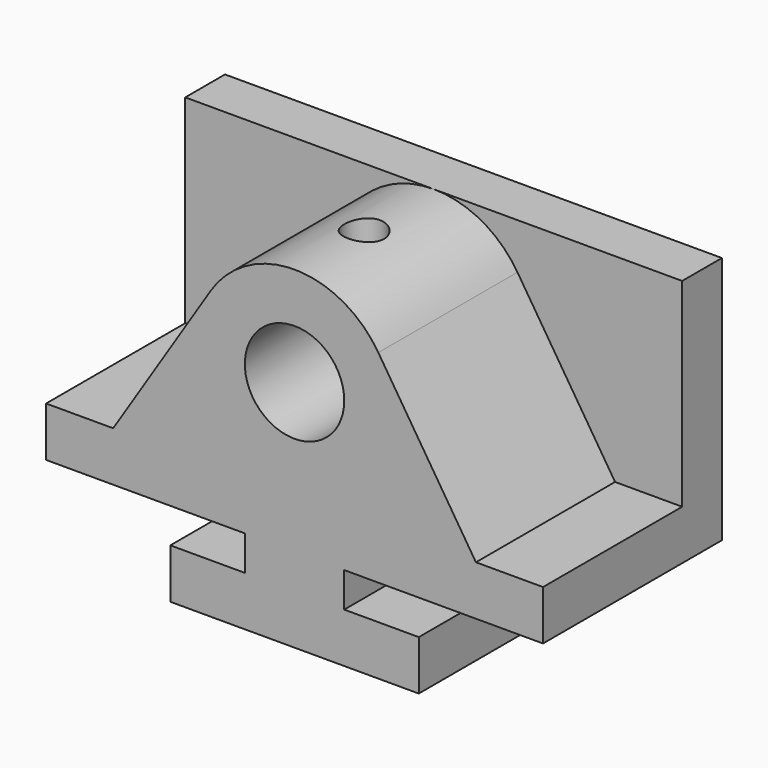
from build123d import *

# Parameters (mm, degrees)
F0_R     = 12.7
F1_DEPTH = 44.45
F2_W     = 127
F2_H     = 63.5
F3_DEPTH = 12.7
F5_R     = 5.08
F6_DEPTH = 25.4


with BuildPart() as f1:
    # F0 (on Front) → F1 (new body)
    with BuildSketch(Plane.XZ):
        with BuildLine():
            Line((-31.75, 0), (0, 0))
            Line((0, 0), (31.75, 0))
            Line((31.75, 0), (31.75, 12.7))
            Line((31.75, 12.7), (12.7, 12.7))
            Line((12.7, 12.7), (12.7, 21.59))
            Line((12.7, 21.59), (63.5, 21.59))
            Line((63.5, 21.59), (63.5, 34.29))
            Line((63.5, 34.29), (46.355, 34.29))
            Line((46.355, 34.29), (21.407995, 73.359592))
            ThreePointArc((21.407995, 73.359592), (0, 85.09), (-21.407995, 73.359592))
            Line((-21.407995, 73.359592), (-46.355, 34.29))
            Line((-46.355, 34.29), (-63.5, 34.29))
            Line((-63.5, 34.29), (-63.5, 21.59))
            Line((-63.5, 21.59), (-12.7, 21.59))
            Line((-12.7, 21.59), (-12.7, 12.7))
            Line((-12.7, 12.7), (-31.75, 12.7))
            Line((-31.75, 12.7), (-31.75, 0))
        make_face()
        with Locations((0, 59.69)):
            Circle(F0_R, mode=Mode.SUBTRACT)
    extrude(amount=F1_DEPTH)

    # F2 (on face) → F3 (join)
    with BuildSketch(Plane(origin=(0, 0, 0), x_dir=(-1, 0, 0), z_dir=(0, 1, 0))):
        with Locations((0, 53.34)):
            Rectangle(F2_W, F2_H)
    extrude(amount=F3_DEPTH)

    # F5 (on offset) → F6 (cut)
    with BuildSketch(Plane.XY.offset(85.09)):
        with Locations((0, -22.225)):
            Circle(F5_R)
    extrude(amount=-F6_DEPTH, mode=Mode.SUBTRACT)


solid = f1.part
